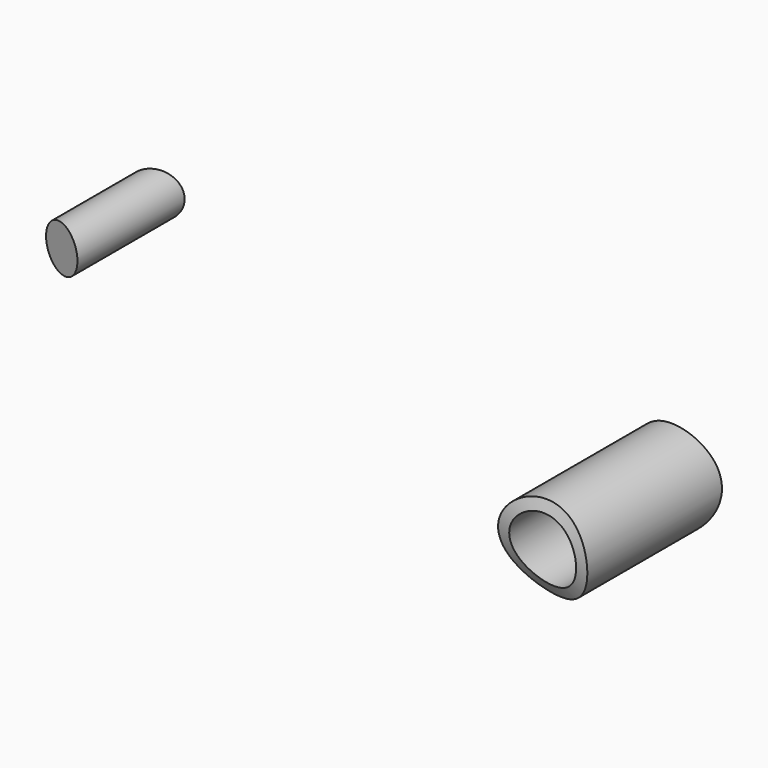
from build123d import *

# Parameters (mm, degrees)
F0_R     = 3.175
F0_R_2   = 2.38125
F1_DEPTH = 6.35
F0_R_3   = 1.5875
F4_DEPTH = 63.5
F6_DEPTH = 38.1


with BuildPart() as f1:
    # F0 (on Front) → F1 (new body, symmetric)
    with BuildSketch(Plane.XZ):
        with Locations((48.6235208809, 15.1863284409)):
            Circle(F0_R)
        with Locations((48.6235208809, 15.1863284409)):
            Circle(F0_R_2, mode=Mode.SUBTRACT)
    extrude(amount=F1_DEPTH, both=True)


with BuildPart() as f1b:
    # F0 (on Front) → F1, piece 2 (new body, symmetric)
    with BuildSketch(Plane.XZ):
        with Locations((13.6874951422, 21.7128396034)):
            Circle(F0_R_3)
    extrude(amount=F1_DEPTH, both=True)


with BuildPart() as f4_tool:
    # F3 (on face) → F4 (new body, symmetric)
    with BuildSketch(Plane(origin=(47.3973885527, 0, -10.3885295862), x_dir=(0, -1, 0), z_dir=(-0.9768123791, 0, 0.2140971182))):
        with BuildLine():
            add(Edge.make_bspline(
                [(0, 34.7532853484), (1.5378532055, 33.5959036458), (4.4815687566, 31.3875342093), (6.4257674751, 26.8939046891), (4.9897171526, 21.721626127), (1.7671005847, 18.8913922435), (0, 17.6107138395)],
                knots=[0, 0, 0, 0, 0.2558418404, 0.4854903825, 0.725840266, 1, 1, 1, 1], degree=3))
            Line((0, 17.6107138395), (0, 16.6775155813))
            Line((0, 16.6775155813), (13.2649885491, 16.6775155813))
            Line((13.2649885491, 16.6775155813), (13.2649885491, 37.0723327391))
            Line((13.2649885491, 37.0723327391), (0, 37.0723327391))
            Line((0, 37.0723327391), (0, 34.7532853484))
        make_face()
        with BuildLine():
            Line((0, 16.6775155813), (0, 17.6107138395))
            add(Edge.make_bspline(
                [(0, 34.7532853484), (-1.5378532055, 33.5959036458), (-4.4815687566, 31.3875342093), (-6.4257674751, 26.8939046891), (-4.9897171526, 21.721626127), (-1.7671005847, 18.8913922435), (0, 17.6107138395)],
                knots=[0, 0, 0, 0, 0.2558418404, 0.4854903825, 0.725840266, 1, 1, 1, 1], degree=3))
            Line((0, 34.7532853484), (0, 37.0723327391))
            Line((0, 37.0723327391), (-13.2649885491, 37.0723327391))
            Line((-13.2649885491, 37.0723327391), (-13.2649885491, 16.6775155813))
            Line((-13.2649885491, 16.6775155813), (-13.2639063522, 16.6775155813))
            Line((-13.2639063522, 16.6775155813), (0, 16.6775155813))
        make_face()
    extrude(amount=F4_DEPTH, both=True)


with BuildPart() as f1_1:
    add(f1.part)

    # F4: cut by f4_tool
    add(f4_tool.part, mode=Mode.SUBTRACT)


with BuildPart() as f1b_1:
    add(f1b.part)

    # F4: cut by f4_tool
    add(f4_tool.part, mode=Mode.SUBTRACT)

    # F5 (on Top) → F6 (cut, symmetric)
    with BuildSketch(Plane.XY):
        Polygon((22.2920793171, -7.4048238039), (3.2524354756, 0), (0, 0), (0, -11.8425413966), (16.7136751115, -11.8425413966), (22.3890412599, -11.8425413966), align=None)
        Polygon((0, 0), (3.2524354756, 0), (21.9712223362, 7.280037362), (21.9004824758, 10.5176325887), (16.7136751115, 10.5176325887), (0, 10.5176325887), align=None)
    extrude(amount=F6_DEPTH, both=True, mode=Mode.SUBTRACT)


solid = Compound([f1_1.part, f1b_1.part])
